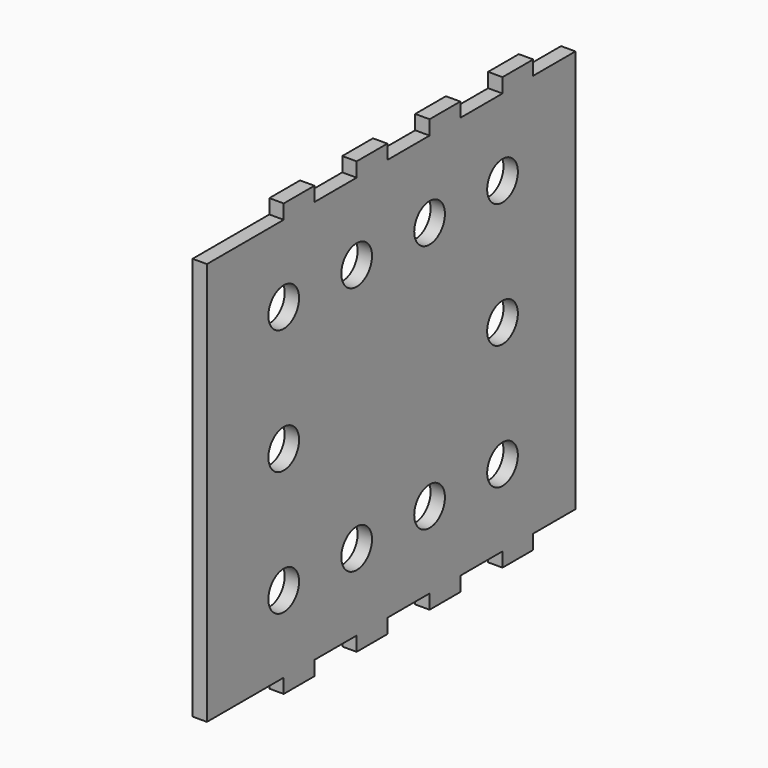
from build123d import *

# Parameters (mm, degrees)
F0_W     = 19.05
F0_H     = 609.6
F1_DEPTH = 533.4
F2_W     = 19.05
F2_H     = 50.8
F3_DEPTH = 19.05
F4_W     = 19.05
F4_H     = 50.8
F5_DEPTH = 19.05
F6_R     = 25.4
F7_DEPTH = 19.05


with BuildPart() as f1:
    # F0 (on Top) → F1 (new body)
    with BuildSketch(Plane.XY):
        with Locations((9.525, 304.8)):
            Rectangle(F0_W, F0_H)
    extrude(amount=F1_DEPTH)

    # F2 (on face) → F3 (join)
    with BuildSketch(Plane(origin=(0, 0, 0), x_dir=(1, 0, 0), z_dir=(0, 0, -1))):
        with Locations((9.525, -152.4)):
            Rectangle(F2_W, F2_H)
        with Locations((9.525, -273.05)):
            Rectangle(F2_W, F2_H)
        with Locations((9.525, -393.7)):
            Rectangle(F2_W, F2_H)
        with Locations((9.525, -514.35)):
            Rectangle(F2_W, F2_H)
    extrude(amount=F3_DEPTH)

    # F4 (on face) → F5 (join)
    with BuildSketch(Plane.XY.offset(533.4)):
        with Locations((9.525, 514.35)):
            Rectangle(F4_W, F4_H)
        with Locations((9.525, 393.7)):
            Rectangle(F4_W, F4_H)
        with Locations((9.525, 273.05)):
            Rectangle(F4_W, F4_H)
        with Locations((9.525, 152.4)):
            Rectangle(F4_W, F4_H)
    extrude(amount=F5_DEPTH)

    # F6 (on face) → F7 (cut)
    with BuildSketch(Plane(origin=(0, 0, 0), x_dir=(0, -1, 0), z_dir=(-1, 0, 0))):
        with Locations((-488.95, 101.6)):
            Circle(F6_R)
        with Locations((-368.3, 101.6)):
            Circle(F6_R)
        with Locations((-247.65, 101.6)):
            Circle(F6_R)
        with Locations((-127, 101.6)):
            Circle(F6_R)
        with Locations((-488.95, 431.8)):
            Circle(F6_R)
        with Locations((-368.3, 431.8)):
            Circle(F6_R)
        with Locations((-247.65, 431.8)):
            Circle(F6_R)
        with Locations((-127, 431.8)):
            Circle(F6_R)
        with Locations((-127, 266.7)):
            Circle(F6_R)
        with Locations((-488.95, 266.7)):
            Circle(F6_R)
    extrude(amount=-F7_DEPTH, mode=Mode.SUBTRACT)


solid = f1.part
